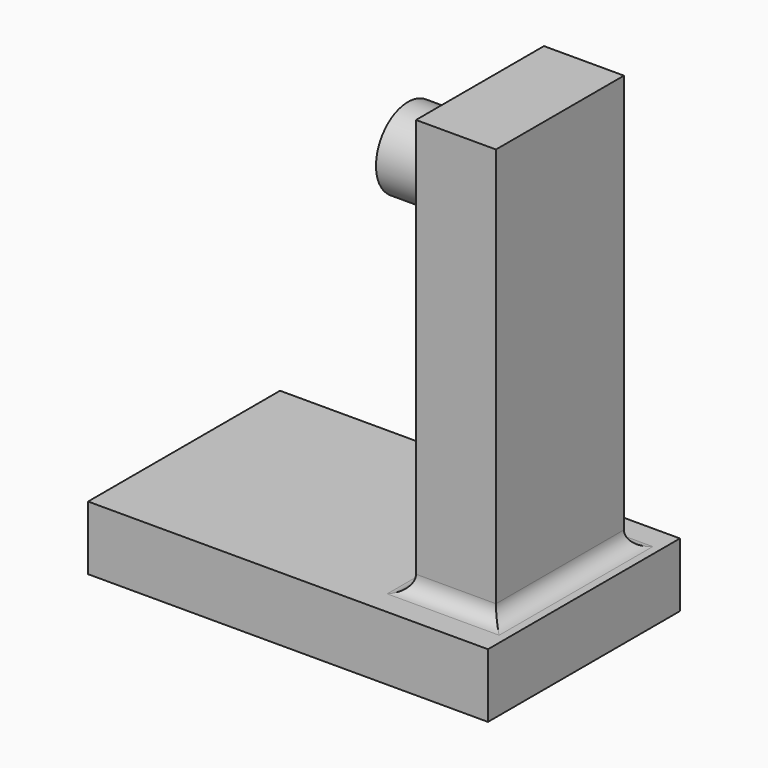
from build123d import *

# Parameters (mm, degrees)
CYLINDER024_R     = 2.5
CYLINDER024_DEPTH = 5
BOX023_W          = 5
BOX023_H          = 10
BOX023_DEPTH      = 30
BOX024_W          = 25
BOX024_H          = 15
BOX024_DEPTH      = 4
FILLET_R          = 1


with BuildPart() as obj1:
    # Cylinder024 → Cylinder024 (new body)
    with BuildSketch(Plane(origin=(92, 2.5, 30), x_dir=(0, 0, -1), z_dir=(1, 0, 0))):
        Circle(CYLINDER024_R)
    extrude(amount=CYLINDER024_DEPTH)


with BuildPart() as obj2:
    # Box023 → Box023 (new body)
    with BuildSketch(Plane(origin=(96.5, -2.5, 5), x_dir=(1, 0, 0), z_dir=(0, 0, 1))):
        with Locations((2.5, 5)):
            Rectangle(BOX023_W, BOX023_H)
    extrude(amount=BOX023_DEPTH)

    # Fusion016: union obj1
    add(obj1.part)


with BuildPart() as obj3:
    # Box024 → Box024 (new body)
    with BuildSketch(Plane(origin=(78, -5, 5), x_dir=(1, 0, 0), z_dir=(0, 0, 1))):
        with Locations((12.5, 7.5)):
            Rectangle(BOX024_W, BOX024_H)
    extrude(amount=BOX024_DEPTH)

    # Fusion017: union obj2
    add(obj2.part)


with BuildPart() as obj3_1:
    # Fusion017 placement: moved
    add(obj3.part.moved(Location((-4, 0, 0))))

    # Fillet
    fillet_edges = [obj3_1.edges().sort_by_distance(p)[0] for p in [
        (95, -2.5, 9),
        (97.5, 2.5, 9),
        (95, 7.5, 9),
        (92.5, 2.5, 9),
    ]]
    fillet(fillet_edges, radius=FILLET_R)


solid = obj3_1.part
